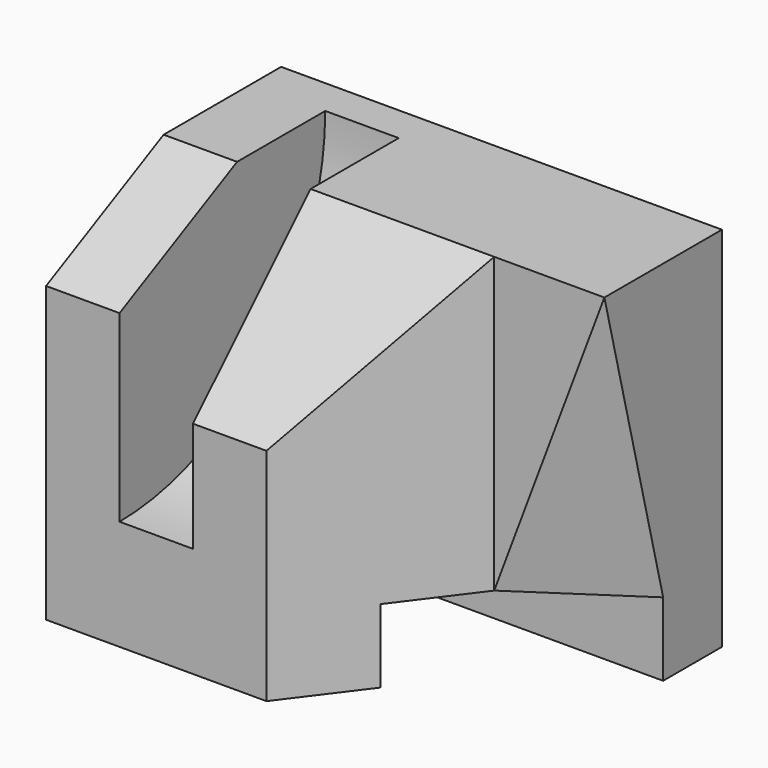
from build123d import *

# Parameters (mm, degrees)
F0_W      = 60
F0_H      = 40
F1_DEPTH  = 50
F2_W      = 10
F2_H      = 35
F4_W      = 10
F4_H      = 10
F10_DEPTH = 50.001
F11_W     = 15
F11_H     = 20
F12_DEPTH = 50.001
F7_W      = 40
F7_H      = 20
F14_W     = 10
F14_H     = 10
F15_DEPTH = 60.001
F14_W_2   = 20
F19_DEPTH = 60.001


with BuildPart() as f1:
    # F0 (on Top) → F1 (new body)
    with BuildSketch(Plane.XY):
        with Locations((30, 20)):
            Rectangle(F0_W, F0_H)
    extrude(amount=F1_DEPTH)

    # F2 (on face) → F3 (revolve, cut)
    with BuildSketch(Plane.XY.offset(50)):
        with Locations((15, 17.5)):
            Rectangle(F2_W, F2_H)
    revolve(axis=Axis((15, 0, 50), (1, 0, 0)), mode=Mode.SUBTRACT)

    # F6: sweep along a path in F5
    with BuildLine(Plane(origin=(0, 0, 0), x_dir=(0, -1, 0), z_dir=(-1, 0, 0))) as f6_path:
        Line((0, 40), (-20, 50))
    # F4 (on face) → F6 (sweep, cut)
    with BuildSketch(Plane.XZ):
        with Locations((5, 45)):
            Rectangle(F4_W, F4_H)
    sweep(path=f6_path.line, mode=Mode.SUBTRACT)

    # F9 (on face) → F10 (cut, through all)
    with BuildSketch(Plane.XY.offset(50)):
        Polygon((45, 20), (30, 0), (45, 0), align=None)
    extrude(amount=-F10_DEPTH, mode=Mode.SUBTRACT)

    # F11 (on face) → F12 (cut, through all)
    with BuildSketch(Plane.XY.offset(50)):
        with Locations((52.5, 10)):
            Rectangle(F11_W, F11_H)
    extrude(amount=-F12_DEPTH, mode=Mode.SUBTRACT)

    # F13: sweep along a path in F8
    with BuildLine(Plane.YZ.offset(60)) as f13_path:
        Line((0, 30), (20, 50))
    # F7 (on face) → F13 (sweep, cut)
    with BuildSketch(Plane.XZ):
        with Locations((40, 40)):
            Rectangle(F7_W, F7_H)
    sweep(path=f13_path.line, mode=Mode.SUBTRACT)

    # F14 (on face) → F15 (cut, through all)
    with BuildSketch(Plane.YZ.offset(60)):
        with Locations((25, 5)):
            Rectangle(F14_W, F14_H)
        with Locations((15, 5)):
            Rectangle(F14_W, F14_H)
    extrude(amount=-F15_DEPTH, mode=Mode.SUBTRACT)

    # F18: sweep along a path in F17
    with BuildLine(Plane.YZ.offset(60)) as f18_path:
        Line((30, 10), (20, 50))
    # F16 (on face) → F18 (sweep, cut)
    with BuildSketch(Plane(origin=(0, 0, 10), x_dir=(1, 0, 0), z_dir=(0, 0, -1))):
        Polygon((60, -20), (45, -20), (60, -30), align=None)
    sweep(path=f18_path.line, mode=Mode.SUBTRACT)

    # F14 (on face) → F19 (cut, through all)
    with BuildSketch(Plane.YZ.offset(60)):
        with Locations((20, 5)):
            Rectangle(F14_W_2, F14_H)
        with Locations((15, 5)):
            Rectangle(F14_W, F14_H)
    extrude(amount=-F19_DEPTH, mode=Mode.SUBTRACT)


solid = f1.part
